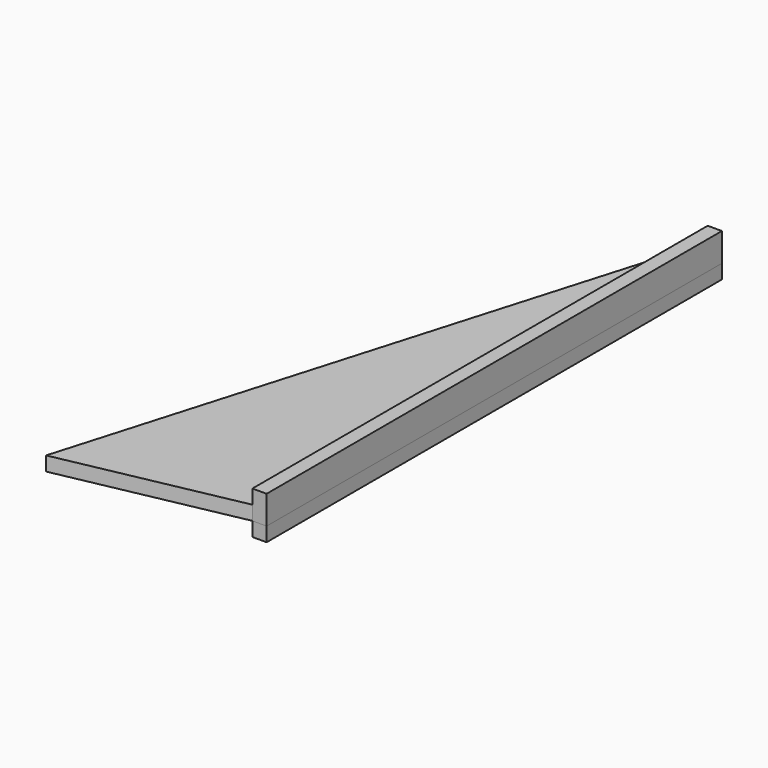
from build123d import *

# Parameters (mm, degrees)
F1_DEPTH  = 2
F2_W      = 2
F2_H      = 80
F3_DEPTH  = 2
F3_FACE_W = 2
F3_FACE_H = 80
F4_DEPTH  = 4


with BuildPart() as f1:
    # F0 (on Top) → F1 (new body)
    with BuildSketch(Plane.XY):
        Polygon((-25, -5), (0, 0), (0, 80), align=None)
    extrude(amount=F1_DEPTH)


with BuildPart() as f3:
    # F2 (on face) → F3 (new body)
    with BuildSketch(Plane(origin=(0, 0, 0), x_dir=(1, 0, 0), z_dir=(0, 0, -1))):
        with Locations((1, -40)):
            Rectangle(F2_W, F2_H)
    extrude(amount=F3_DEPTH)


with BuildPart() as f4:
    # F3_face (on face) → F4 (new body)
    with BuildSketch(Plane(origin=(1, 40, 0), x_dir=(1, 0, 0), z_dir=(0, 0, 1))):
        Rectangle(F3_FACE_W, F3_FACE_H)
    extrude(amount=F4_DEPTH)


solid = Compound([f1.part, f3.part, f4.part])
